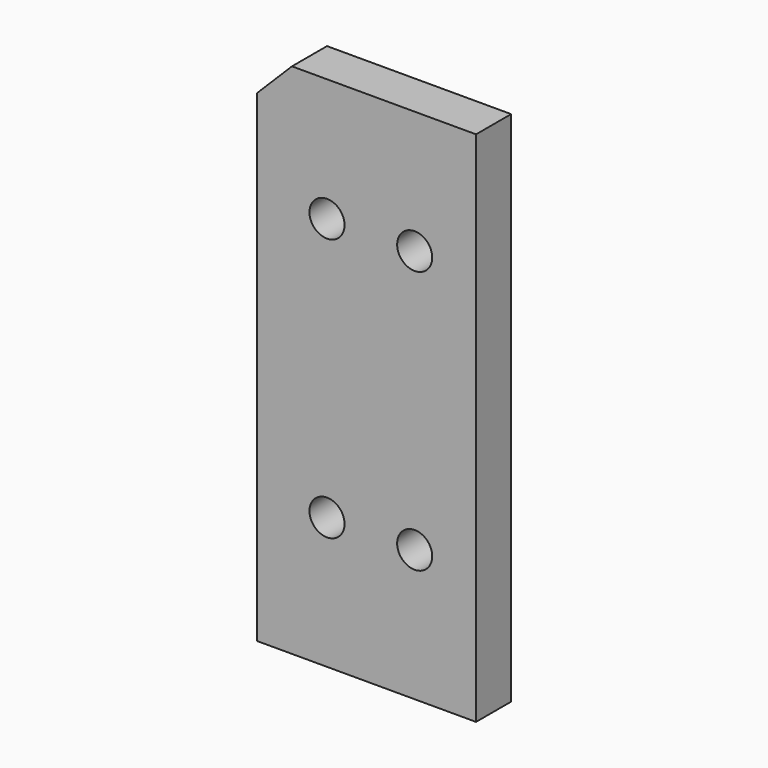
from build123d import *

# Parameters (mm, degrees)
CIRCLE002_R      = 2
EXTRUDE088_DEPTH = 5
CIRCLE_R         = 2
EXTRUDE089_DEPTH = 5
CIRCLE001_R      = 2
EXTRUDE087_DEPTH = 5
CIRCLE003_R      = 2
EXTRUDE086_DEPTH = 5
RECTANGLE068_W   = 25
RECTANGLE068_H   = 5
EXTRUDE083_DEPTH = 59
CHAMFER008_SIZE  = 4


with BuildPart() as extrude088:
    # Circle002 → Extrude088 (new body)
    with BuildSketch(Plane(origin=(-17, 0, 30), x_dir=(1, 0, 0), z_dir=(0, -1, 0))):
        Circle(CIRCLE002_R)
    extrude(amount=-EXTRUDE088_DEPTH)


with BuildPart() as extrude089:
    # Circle → Extrude089 (new body)
    with BuildSketch(Plane(origin=(-7, 0, 30), x_dir=(1, 0, 0), z_dir=(0, -1, 0))):
        Circle(CIRCLE_R)
    extrude(amount=-EXTRUDE089_DEPTH)


with BuildPart() as extrude087:
    # Circle001 → Extrude087 (new body)
    with BuildSketch(Plane(origin=(-17, 0, 60), x_dir=(1, 0, 0), z_dir=(0, -1, 0))):
        Circle(CIRCLE001_R)
    extrude(amount=-EXTRUDE087_DEPTH)


with BuildPart() as extrude086:
    # Circle003 → Extrude086 (new body)
    with BuildSketch(Plane(origin=(-7, 0, 60), x_dir=(1, 0, 0), z_dir=(0, -1, 0))):
        Circle(CIRCLE003_R)
    extrude(amount=-EXTRUDE086_DEPTH)


with BuildPart() as cut007:
    # Rectangle068 → Extrude083 (new body)
    with BuildSketch(Plane(origin=(0, 5, 15), x_dir=(-1, 0, 0), z_dir=(0, 0, 1))):
        with Locations((12.5, 2.5)):
            Rectangle(RECTANGLE068_W, RECTANGLE068_H)
    extrude(amount=EXTRUDE083_DEPTH)

    # Chamfer008
    chamfer008_edges = [cut007.edges().sort_by_distance(p)[0] for p in [
        (-25, 2.5, 74),
    ]]
    chamfer(chamfer008_edges, length=CHAMFER008_SIZE)

    # Cut004: cut Extrude086
    add(extrude086.part, mode=Mode.SUBTRACT)

    # Cut005: cut Extrude087
    add(extrude087.part, mode=Mode.SUBTRACT)

    # Cut006: cut Extrude089
    add(extrude089.part, mode=Mode.SUBTRACT)

    # Cut007: cut Extrude088
    add(extrude088.part, mode=Mode.SUBTRACT)


solid = cut007.part
